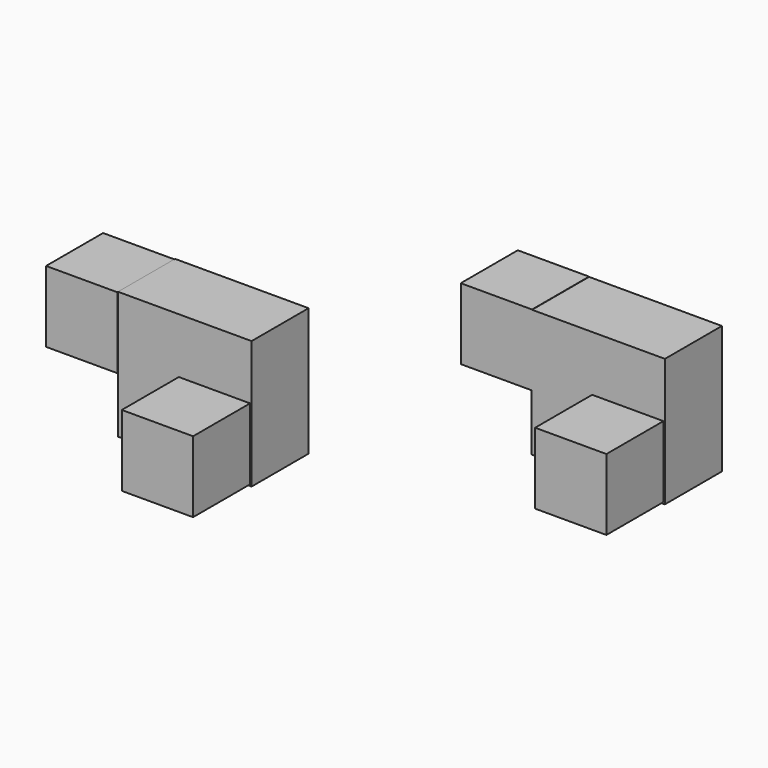
from build123d import *

# Parameters (mm, degrees)
F0_W     = 8.7418866134
F0_H     = 9.1640796146
F0_H_2   = 8.7418866134
F1_DEPTH = 10
F2_W     = 10
F2_H     = 10
F3_DEPTH = 10
F4_W     = 10
F4_H     = 10
F5_DEPTH = 20
F7_W     = 10
F7_H     = 10
F8_DEPTH = 10


with BuildPart() as f1:
    # F0 (on Front) → F1 (new body)
    with BuildSketch(Plane.XZ):
        with Locations((-21.3905060912, -12.8338585444)):
            Rectangle(F0_W, F0_H)
        with Locations((-21.3905060912, -21.7868416584)):
            Rectangle(F0_W, F0_H_2)
        Polygon((-17.0195627845, -8.2518187371), (-17.0195627845, -17.4158983517), (-17.0195627845, -26.1577849651), (-17.0195627845, -26.2256928669), (-7.0195627845, -26.2256928669), (-7.0195627845, -8.2518187371), align=None)
    extrude(amount=F1_DEPTH)

    # F4 (on Front) → F5 (join)
    with BuildSketch(Plane.XZ):
        with Locations((-12.2296868358, -21.0118762836)):
            Rectangle(F4_W, F4_H)
    extrude(amount=F5_DEPTH)


with BuildPart() as f3:
    # F2 (on Front) → F3 (new body)
    with BuildSketch(Plane.XZ):
        with Locations((-30.8545911685, -13.3431641402)):
            Rectangle(F2_W, F2_H)
    extrude(amount=F3_DEPTH)


with BuildPart() as f6_1:
    # F6: copy of F1
    add(f1.part.moved(Location((50, 10, 10))))

    # F7 (on Front) → F8 (join)
    with BuildSketch(Plane.XZ):
        with Locations((19.3341116374, -3.2180631533)):
            Rectangle(F7_W, F7_H)
    extrude(amount=-F8_DEPTH)


solid = Compound([f1.part, f3.part, f6_1.part])
